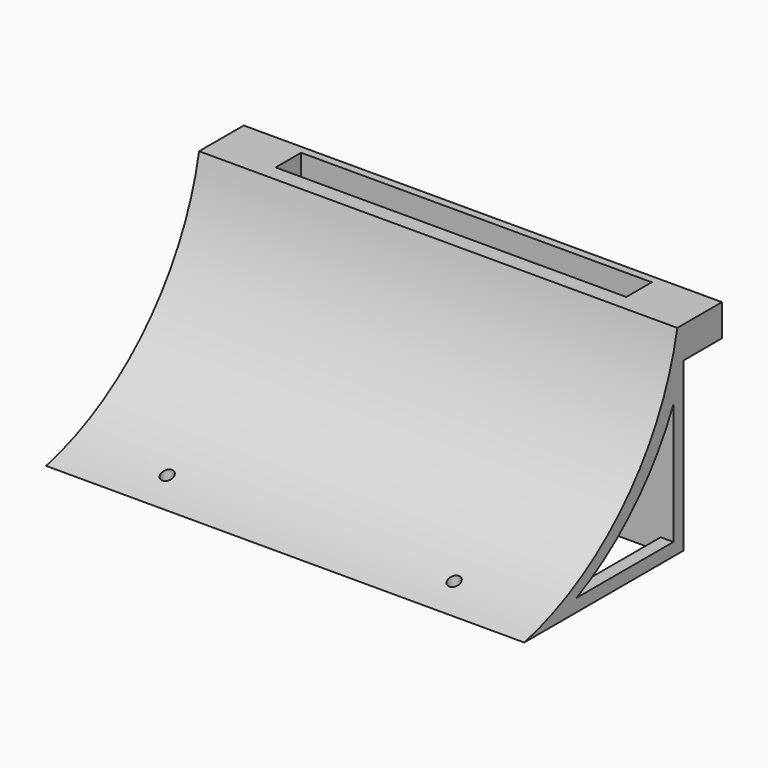
from build123d import *

# Parameters (mm, degrees)
F1_DEPTH  = 190.5
F2_W      = 190.5
F2_H      = 79.375
F3_DEPTH  = 3.175
F4_W      = 149.86
F4_H      = 79.375
F5_DEPTH  = 19.05
F6_W      = 139.7
F6_H      = 12.7
F7_DEPTH  = 127
F8_R      = 2.38125
F9_DEPTH  = 12.7
F10_R     = 2.38125
F11_DEPTH = 25.4
F12_W     = 20.32
F12_H     = 12.7
F13_DEPTH = 19.05
F14_W     = 20.32
F14_H     = 12.7
F15_DEPTH = 19.05
F17_DEPTH = 203.2
F18_W     = 13.97
F18_H     = 61.595
F19_DEPTH = 254
F20_W     = 180.34
F20_H     = 45.9946300644
F21_DEPTH = 5.08


with BuildPart() as f1:
    # F0 (on Right) → F1 (new body)
    with BuildSketch(Plane.YZ):
        with BuildLine():
            Line((-76.2, 0), (0, 0))
            Line((0, 0), (0, 79.375))
            ThreePointArc((0, 79.375), (-26.424895677, 28.4793998499), (-76.2, 0))
        make_face()
    extrude(amount=F1_DEPTH)

    # F2 (on face) → F3 (join)
    with BuildSketch(Plane(origin=(0, 0, 0), x_dir=(-1, 0, 0), z_dir=(0, 1, 0))):
        with Locations((-95.25, 39.6875)):
            Rectangle(F2_W, F2_H)
    extrude(amount=F3_DEPTH)

    # F4 (on face) → F5 (join)
    with BuildSketch(Plane(origin=(0, 3.175, 0), x_dir=(-1, 0, 0), z_dir=(0, 1, 0))):
        with Locations((-95.25, 39.6875)):
            Rectangle(F4_W, F4_H)
    extrude(amount=F5_DEPTH)

    # F6 (on face) → F7 (cut)
    with BuildSketch(Plane.XY.offset(79.375)):
        with Locations((95.25, 12.7)):
            Rectangle(F6_W, F6_H)
    extrude(amount=-F7_DEPTH, mode=Mode.SUBTRACT)

    # F8 (on face) → F9 (cut)
    with BuildSketch(Plane(origin=(0, 22.225, 0), x_dir=(-1, 0, 0), z_dir=(0, 1, 0))):
        with Locations((-132.08, 50.8)):
            Circle(F8_R)
        with BuildLine():
            ThreePointArc((-56.03875, 50.8), (-58.42, 53.18125), (-60.80125, 50.8))
            ThreePointArc((-60.80125, 50.8), (-58.42, 48.41875), (-56.03875, 50.8))
        make_face()
    extrude(amount=-F9_DEPTH, mode=Mode.SUBTRACT)

    # F10 (on face) → F11 (cut)
    with BuildSketch(Plane(origin=(0, 0, 0), x_dir=(1, 0, 0), z_dir=(0, 0, -1))):
        with BuildLine():
            ThreePointArc((154.78125, 63.5), (152.4, 65.88125), (150.01875, 63.5))
            ThreePointArc((150.01875, 63.5), (152.4, 61.11875), (154.78125, 63.5))
        make_face()
        with Locations((38.1, 63.5)):
            Circle(F10_R)
    extrude(amount=-F11_DEPTH, mode=Mode.SUBTRACT)

    # F12 (on face) → F13 (join)
    with BuildSketch(Plane(origin=(0, 3.175, 0), x_dir=(-1, 0, 0), z_dir=(0, 1, 0))):
        with Locations((-180.34, 73.025)):
            Rectangle(F12_W, F12_H)
    extrude(amount=F13_DEPTH)

    # F14 (on face) → F15 (join)
    with BuildSketch(Plane(origin=(0, 3.175, 0), x_dir=(-1, 0, 0), z_dir=(0, 1, 0))):
        with Locations((-10.16, 73.025)):
            Rectangle(F14_W, F14_H)
    extrude(amount=F15_DEPTH)

    # F16 (on face) → F17 (cut)
    with BuildSketch(Plane.YZ.offset(190.5)):
        with BuildLine():
            ThreePointArc((-1.905, 53.34), (-21.8614303996, 25.0364303996), (-50.165, 5.08))
            Line((-50.165, 5.08), (-1.905, 5.08))
            Line((-1.905, 5.08), (-1.905, 53.34))
        make_face()
    extrude(amount=-F17_DEPTH, mode=Mode.SUBTRACT)

    # F18 (on face) → F19 (cut)
    with BuildSketch(Plane.YZ.offset(170.18)):
        with Locations((10.16, 35.8775)):
            Rectangle(F18_W, F18_H)
    extrude(amount=-F19_DEPTH, mode=Mode.SUBTRACT)

    # F20 (on face) → F21 (cut)
    with BuildSketch(Plane(origin=(0, 0, 0), x_dir=(1, 0, 0), z_dir=(0, 0, -1))):
        with Locations((95.25, 24.9023150322)):
            Rectangle(F20_W, F20_H)
    extrude(amount=-F21_DEPTH, mode=Mode.SUBTRACT)


solid = f1.part
